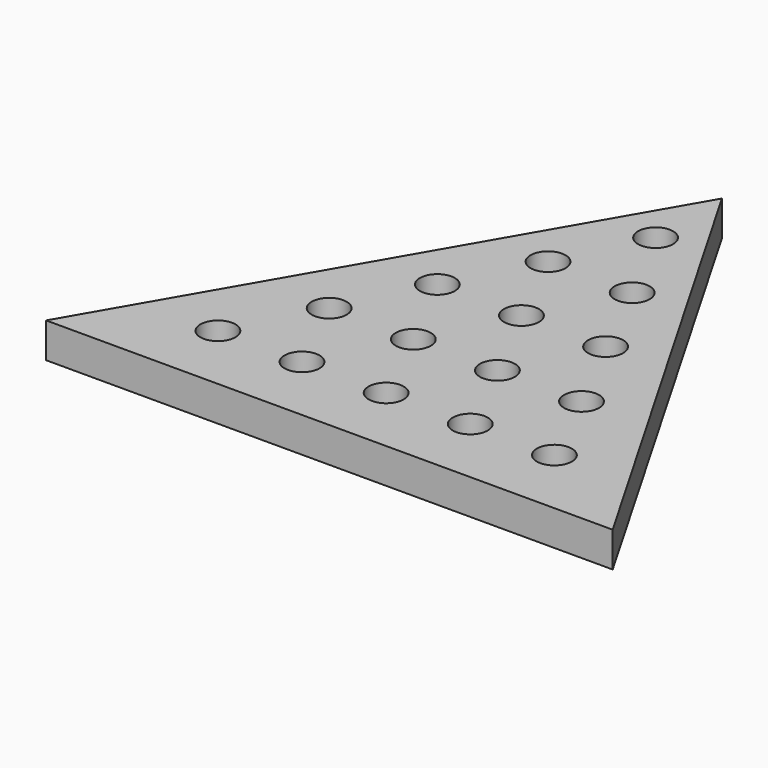
from build123d import *

# Parameters (mm, degrees)
F7_DEPTH = 6.35
F5_R     = 3.175
F1_R     = 3.175
F2_R     = 3.175
F3_R     = 3.175
F4_R     = 3.175
F8_DEPTH = 6.35


with BuildPart() as f7:
    # F6 (on face) → F7 (new body)
    with BuildSketch(Plane.XY):
        Polygon((-8.272192, 0), (94.380685, 0), (43.054246, 88.9), align=None)
    extrude(amount=F7_DEPTH)

    # F5 (on face) + F1 (on face) + F2 (on face) + F3 (on face) + F4 (on face) → F8 (cut, through all)
    with BuildSketch(Plane.XY):
        with Locations((43.2308, 73.655994)):
            Circle(F5_R)
    with BuildSketch(Plane.XY):
        with Locations((12.7, 12.7)):
            Circle(F1_R)
        with Locations((27.94, 12.7)):
            Circle(F1_R)
        with Locations((43.18, 12.7)):
            Circle(F1_R)
        with Locations((58.42, 12.7)):
            Circle(F1_R)
        with Locations((73.66, 12.7)):
            Circle(F1_R)
    with BuildSketch(Plane.XY):
        with Locations((20.669391, 27.935994)):
            Circle(F2_R)
        with Locations((35.909391, 27.935994)):
            Circle(F2_R)
        with Locations((51.149391, 27.935994)):
            Circle(F2_R)
        with Locations((66.389391, 27.935994)):
            Circle(F2_R)
    with BuildSketch(Plane.XY):
        with Locations((28.076159, 43.175994)):
            Circle(F3_R)
        with Locations((43.316159, 43.175994)):
            Circle(F3_R)
        with Locations((58.556159, 43.175994)):
            Circle(F3_R)
    with BuildSketch(Plane.XY):
        with Locations((35.941, 58.415994)):
            Circle(F4_R)
        with Locations((51.181, 58.415994)):
            Circle(F4_R)
    extrude(amount=F8_DEPTH, mode=Mode.SUBTRACT)


solid = f7.part
